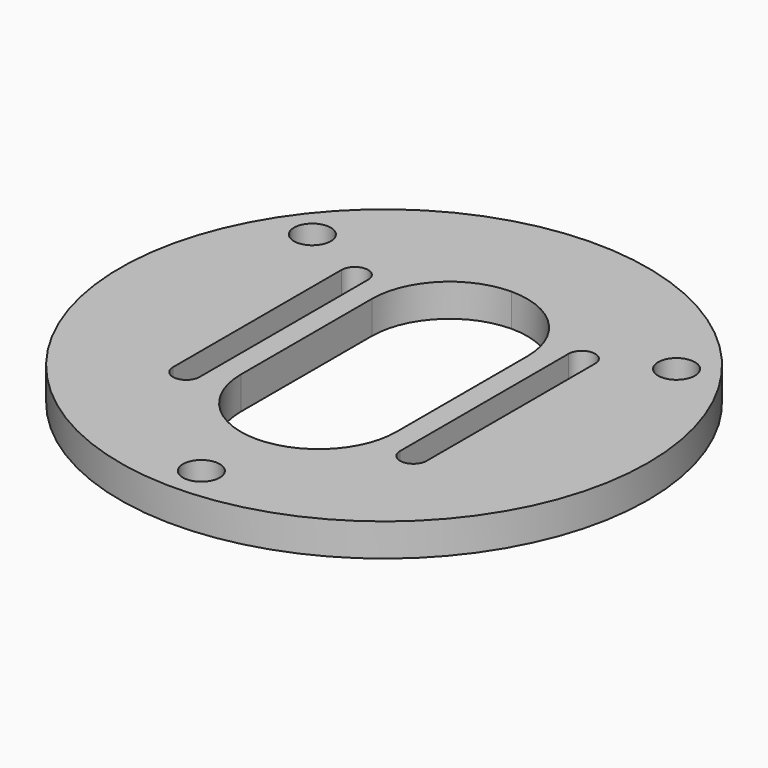
from build123d import *

# Parameters (mm, degrees)
F0_R     = 64.516
F2_DEPTH = 8
F3_DEPTH = 8
F4_R     = 4.5
F5_DEPTH = 8


with BuildPart() as f2:
    # F0 (on Top) → F2 (new body)
    with BuildSketch(Plane.XY):
        Circle(F0_R)
    extrude(amount=F2_DEPTH)

    # F1 (on Top) → F3 (cut, through all)
    with BuildSketch(Plane.XY):
        with BuildLine():
            Line((-19, 20), (-19, 0))
            Line((-19, 0), (-19, -20))
            ThreePointArc((-19, -20), (-13.435029, -33.435029), (0, -39))
            ThreePointArc((0, -39), (13.435029, -33.435029), (19, -20))
            Line((19, -20), (19, 0))
            Line((19, 0), (19, 20))
            ThreePointArc((19, 20), (13.435029, 33.435029), (0, 39))
            ThreePointArc((0, 39), (-13.435029, 33.435029), (-19, 20))
        make_face()
        with BuildLine():
            Line((-24.5, -25.75), (-24.5, 0))
            Line((-24.5, 0), (-24.5, 25.75))
            ThreePointArc((-24.5, 25.75), (-27.75, 29), (-31, 25.75))
            Line((-31, 25.75), (-31, 0))
            Line((-31, 0), (-31, -25.75))
            ThreePointArc((-31, -25.75), (-27.75, -29), (-24.5, -25.75))
        make_face()
        with BuildLine():
            Line((24.5, 25.75), (24.5, 0))
            Line((24.5, 0), (24.5, -25.75))
            ThreePointArc((24.5, -25.75), (27.75, -29), (31, -25.75))
            Line((31, -25.75), (31, 0))
            Line((31, 0), (31, 25.75))
            ThreePointArc((31, 25.75), (27.75, 29), (24.5, 25.75))
        make_face()
    extrude(amount=F3_DEPTH, mode=Mode.SUBTRACT)

    # F4 (on face) → F5 (cut, through all)
    with BuildSketch(Plane.XY.offset(8)):
        with Locations((0, -55.832823)):
            Circle(F4_R)
        with Locations((-44.5, 33.720234)):
            Circle(F4_R)
        with Locations((44.5, 33.720234)):
            Circle(F4_R)
    extrude(amount=-F5_DEPTH, mode=Mode.SUBTRACT)


solid = f2.part
